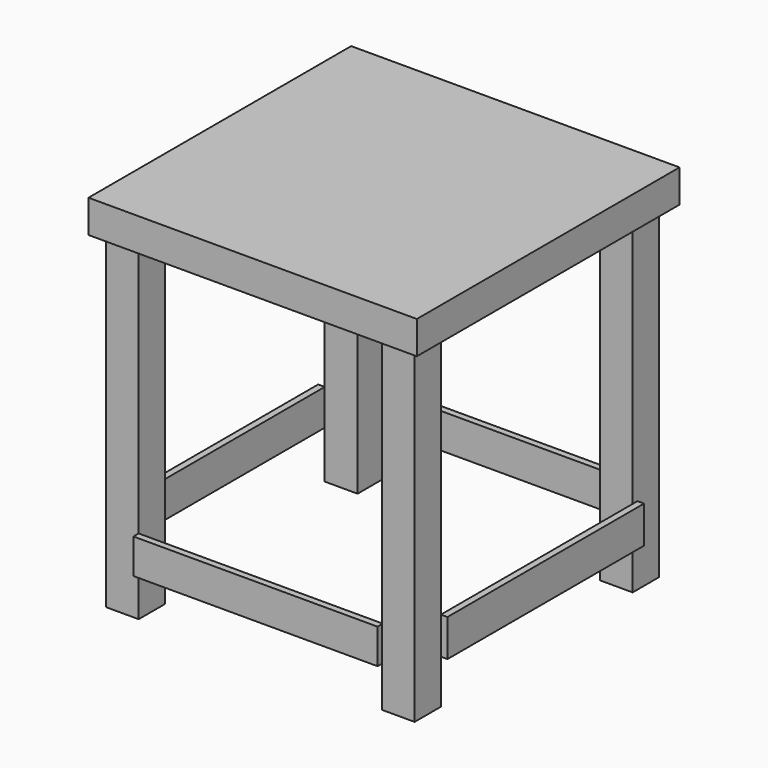
from build123d import *

# Parameters (mm, degrees)
F1_W      = 10
F1_H      = 10
F5_DEPTH  = 100
F2_W      = 10
F2_H      = 10
F6_DEPTH  = 100
F3_W      = 10
F3_H      = 10
F7_DEPTH  = 100
F4_W      = 10
F4_H      = 10
F8_DEPTH  = 100
F0_W      = 100
F0_H      = 100
F9_DEPTH  = 10
F10_W     = 74.825423
F10_H     = 11.291899
F11_DEPTH = 2
F12_W     = 74.37151
F12_H     = 10.607541
F13_DEPTH = 2
F14_W     = 74.092182
F14_H     = 10.949716
F15_DEPTH = 2
F16_W     = 73.335298
F16_H     = 10.607541
F17_DEPTH = 2


with BuildPart() as f5:
    # F1 (on Top) → F5 (new body)
    with BuildSketch(Plane.XY):
        with Locations((-34.888266, -35.034918)):
            Rectangle(F1_W, F1_H)
    extrude(amount=-F5_DEPTH)



with BuildPart() as f6:
    # F2 (on face) → F6 (new body)
    with BuildSketch(Plane.XY):
        with Locations((-34.608942, 47.953915)):
            Rectangle(F2_W, F2_H)
    extrude(amount=-F6_DEPTH)


with BuildPart() as f7:
    # F3 (on face) → F7 (new body)
    with BuildSketch(Plane.XY):
        with Locations((49.399175, -35.342179)):
            Rectangle(F3_W, F3_H)
    extrude(amount=-F7_DEPTH)


with BuildPart() as f8:
    # F4 (on face) → F8 (new body)
    with BuildSketch(Plane.XY):
        with Locations((48.223566, 49.127094)):
            Rectangle(F4_W, F4_H)
    extrude(amount=-F8_DEPTH)


with BuildPart() as f9:
    # F0 (on Top) → F9 (new body)
    with BuildSketch(Plane.XY):
        with Locations((7.178768, 7.032122)):
            Rectangle(F0_W, F0_H)
    extrude(amount=F9_DEPTH)


with BuildPart() as f11:
    # F10 (on face) → F11 (new body)
    with BuildSketch(Plane.YZ.offset(54.399175)):
        with Locations((7.070533, -80.935757)):
            Rectangle(F10_W, F10_H)
    extrude(amount=F11_DEPTH)


with BuildPart() as f5_1:
    add(f5.part)

    add(f7.part)  # F13 merges F7
    # F12 (on face) → F13 (join)
    with BuildSketch(Plane.XZ.offset(40.034918)):
        with Locations((7.297489, -82.30447)):
            Rectangle(F12_W, F12_H)
    extrude(amount=F13_DEPTH)


    add(f6.part)  # F15 merges F6
    # F14 (on face) → F15 (join)
    with BuildSketch(Plane(origin=(-39.608942, 0, 0), x_dir=(0, -1, 0), z_dir=(-1, 0, 0))):
        with Locations((-5.907824, -80.080308)):
            Rectangle(F14_W, F14_H)
    extrude(amount=F15_DEPTH)


with BuildPart() as f17:
    # F16 (on face) → F17 (new body)
    with BuildSketch(Plane(origin=(0, 54.127094, 0), x_dir=(-1, 0, 0), z_dir=(0, 1, 0))):
        with Locations((-6.555917, -82.30447)):
            Rectangle(F16_W, F16_H)
    extrude(amount=F17_DEPTH)


solid = Compound([f8.part, f9.part, f11.part, f5_1.part, f17.part])
